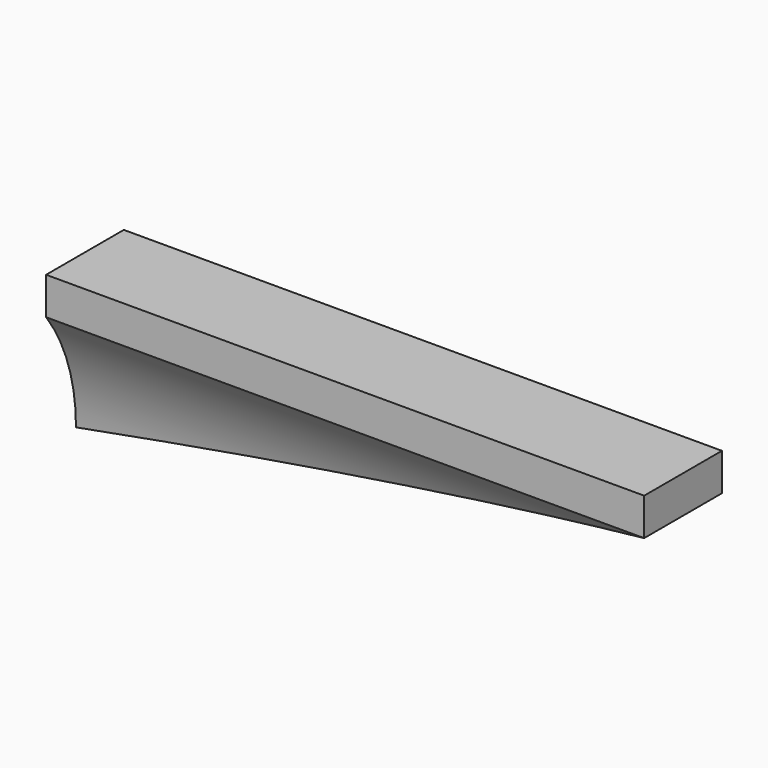
from build123d import *

# Parameters (mm, degrees)
F1_DEPTH = 6.5
F3_DEPTH = 80


with BuildPart() as f1:
    # F0 (on Front) → F1 (new body, symmetric)
    with BuildSketch(Plane.XZ):
        Polygon((80, 0), (0, 0), (0, -20), (80, -5), align=None)
    extrude(amount=F1_DEPTH, both=True)

    # F2 (on Right) → F3 (intersect)
    with BuildSketch(Plane.YZ):
        with BuildLine():
            Line((6.5, 0), (-6.5, 0))
            Line((-6.5, 0), (-6.5, -5))
            ThreePointArc((-6.5, -5), (-2.782918, -12.094306), (-1.5, -20))
            Line((-1.5, -20), (1.5, -20))
            ThreePointArc((1.5, -20), (2.782918, -12.094306), (6.5, -5))
            Line((6.5, -5), (6.5, 0))
        make_face()
    extrude(amount=F3_DEPTH, mode=Mode.INTERSECT)


solid = f1.part
